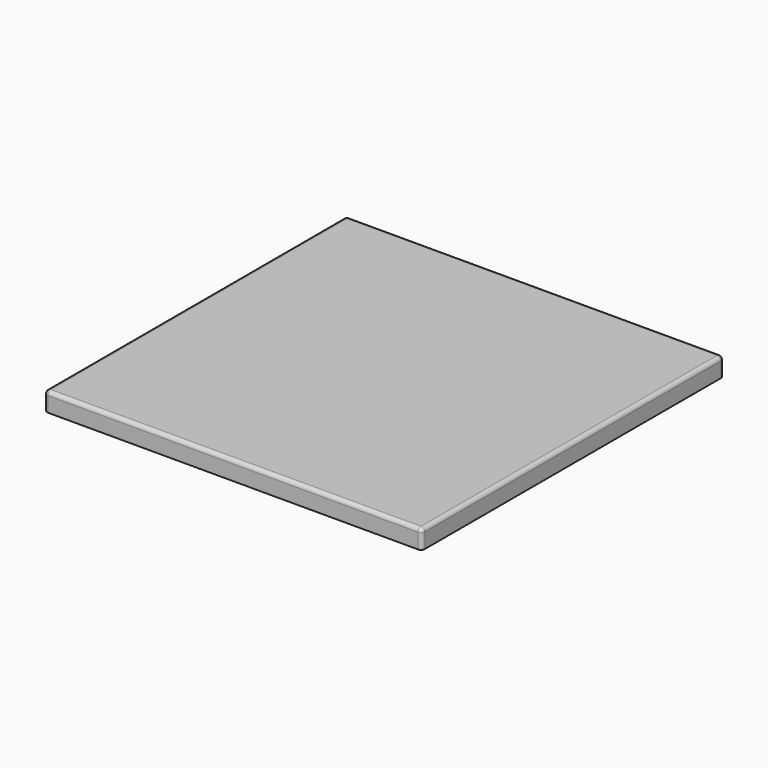
from build123d import *

# Parameters (mm, degrees)
F0_W     = 508
F0_H     = 508
F1_DEPTH = 12.7
F2_R     = 5.08
F3_R     = 5.08


with BuildPart() as f1:
    # F0 (on Top) → F1 (new body, symmetric)
    with BuildSketch(Plane.XY):
        Rectangle(F0_W, F0_H)
    extrude(amount=F1_DEPTH, both=True)

    # F2
    f2_edges = [f1.edges().sort_by_distance(p)[0] for p in [
        (-254, -254, 0),
        (254, -254, 0),
        (254, 254, 0),
        (-254, 254, 0),
    ]]
    fillet(f2_edges, radius=F2_R)

    # F3
    f3_edges = [f1.edges().sort_by_distance(p)[0] for p in [
        (0, 254, 12.7),
        (252.512102, 252.512102, 12.7),
        (-252.512102, 252.512102, 12.7),
        (254, 0, 12.7),
        (-254, 0, 12.7),
        (252.512102, -252.512102, 12.7),
        (-252.512102, -252.512102, 12.7),
        (0, -254, 12.7),
    ]]
    fillet(f3_edges, radius=F3_R)


solid = f1.part
